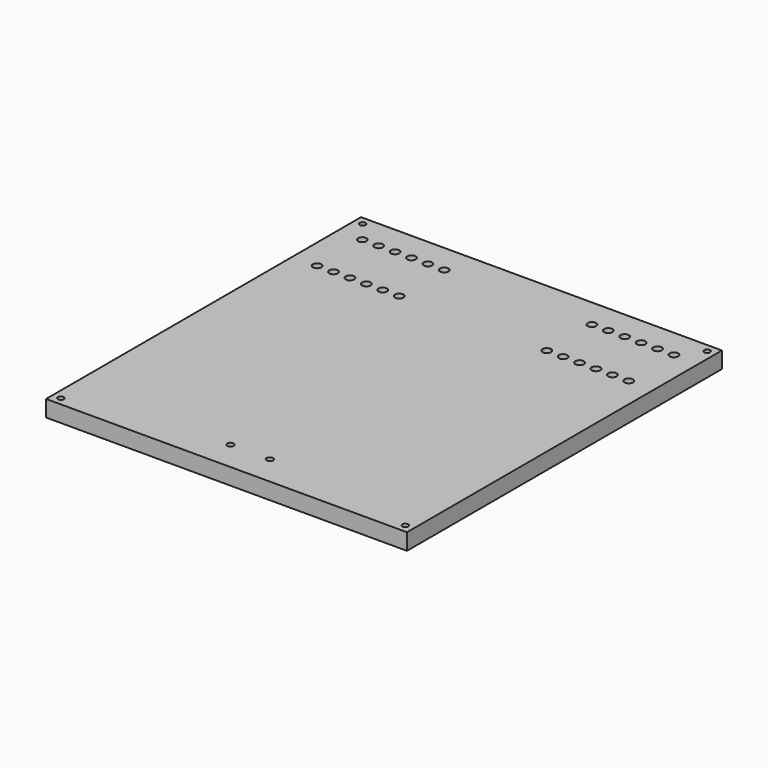
from build123d import *

# Parameters (mm, degrees)
F0_W     = 139.7
F0_H     = 152.4
F0_R     = 1.143
F0_R_2   = 1.27
F0_R_3   = 1.6383
F1_DEPTH = 6.35


with BuildPart() as f1:
    # F0 (on Top) → F1 (new body)
    with BuildSketch(Plane.XY):
        Rectangle(F0_W, F0_H)
        with Locations((-66.675, -73.025)):
            Circle(F0_R, mode=Mode.SUBTRACT)
        with Locations((-7.62, -64.77)):
            Circle(F0_R_2, mode=Mode.SUBTRACT)
        with Locations((7.62, -64.77)):
            Circle(F0_R_2, mode=Mode.SUBTRACT)
        with Locations((66.675, -73.025)):
            Circle(F0_R, mode=Mode.SUBTRACT)
        with Locations((-60.325, 43.053)):
            Circle(F0_R_3, mode=Mode.SUBTRACT)
        with Locations((-53.975, 43.053)):
            Circle(F0_R_3, mode=Mode.SUBTRACT)
        with Locations((-63.5, 53.975)):
            Circle(F0_R_3, mode=Mode.SUBTRACT)
        with Locations((-57.15, 53.975)):
            Circle(F0_R_3, mode=Mode.SUBTRACT)
        with Locations((-47.625, 43.053)):
            Circle(F0_R_3, mode=Mode.SUBTRACT)
        with Locations((-41.275, 43.053)):
            Circle(F0_R_3, mode=Mode.SUBTRACT)
        with Locations((-50.8, 53.975)):
            Circle(F0_R_3, mode=Mode.SUBTRACT)
        with Locations((-44.45, 53.975)):
            Circle(F0_R_3, mode=Mode.SUBTRACT)
        with Locations((-38.1, 53.975)):
            Circle(F0_R_3, mode=Mode.SUBTRACT)
        with Locations((-60.325, 64.897)):
            Circle(F0_R_3, mode=Mode.SUBTRACT)
        with Locations((-53.975, 64.897)):
            Circle(F0_R_3, mode=Mode.SUBTRACT)
        with Locations((-66.675, 73.025)):
            Circle(F0_R, mode=Mode.SUBTRACT)
        with Locations((-47.625, 64.897)):
            Circle(F0_R_3, mode=Mode.SUBTRACT)
        with Locations((-41.275, 64.897)):
            Circle(F0_R_3, mode=Mode.SUBTRACT)
        with Locations((-34.925, 43.053)):
            Circle(F0_R_3, mode=Mode.SUBTRACT)
        with Locations((-28.575, 43.053)):
            Circle(F0_R_3, mode=Mode.SUBTRACT)
        with Locations((-31.75, 53.975)):
            Circle(F0_R_3, mode=Mode.SUBTRACT)
        with Locations((-25.4, 53.975)):
            Circle(F0_R_3, mode=Mode.SUBTRACT)
        with Locations((-34.925, 64.897)):
            Circle(F0_R_3, mode=Mode.SUBTRACT)
        with Locations((-28.575, 64.897)):
            Circle(F0_R_3, mode=Mode.SUBTRACT)
        with Locations((28.575, 43.053)):
            Circle(F0_R_3, mode=Mode.SUBTRACT)
        with Locations((25.4, 53.975)):
            Circle(F0_R_3, mode=Mode.SUBTRACT)
        with Locations((31.75, 53.975)):
            Circle(F0_R_3, mode=Mode.SUBTRACT)
        with Locations((28.575, 64.897)):
            Circle(F0_R_3, mode=Mode.SUBTRACT)
        with Locations((34.925, 43.053)):
            Circle(F0_R_3, mode=Mode.SUBTRACT)
        with Locations((41.275, 43.053)):
            Circle(F0_R_3, mode=Mode.SUBTRACT)
        with Locations((47.625, 43.053)):
            Circle(F0_R_3, mode=Mode.SUBTRACT)
        with Locations((38.1, 53.975)):
            Circle(F0_R_3, mode=Mode.SUBTRACT)
        with Locations((44.45, 53.975)):
            Circle(F0_R_3, mode=Mode.SUBTRACT)
        with Locations((50.8, 53.975)):
            Circle(F0_R_3, mode=Mode.SUBTRACT)
        with Locations((53.975, 43.053)):
            Circle(F0_R_3, mode=Mode.SUBTRACT)
        with Locations((60.325, 43.053)):
            Circle(F0_R_3, mode=Mode.SUBTRACT)
        with Locations((57.15, 53.975)):
            Circle(F0_R_3, mode=Mode.SUBTRACT)
        with Locations((63.5, 53.975)):
            Circle(F0_R_3, mode=Mode.SUBTRACT)
        with Locations((34.925, 64.897)):
            Circle(F0_R_3, mode=Mode.SUBTRACT)
        with Locations((41.275, 64.897)):
            Circle(F0_R_3, mode=Mode.SUBTRACT)
        with Locations((47.625, 64.897)):
            Circle(F0_R_3, mode=Mode.SUBTRACT)
        with Locations((53.975, 64.897)):
            Circle(F0_R_3, mode=Mode.SUBTRACT)
        with Locations((60.325, 64.897)):
            Circle(F0_R_3, mode=Mode.SUBTRACT)
        with Locations((66.675, 73.025)):
            Circle(F0_R, mode=Mode.SUBTRACT)
        with Locations((-63.5, 53.975)):
            Circle(F0_R_3)
        with Locations((-57.15, 53.975)):
            Circle(F0_R_3)
        with Locations((-50.8, 53.975)):
            Circle(F0_R_3)
        with Locations((-44.45, 53.975)):
            Circle(F0_R_3)
        with Locations((-38.1, 53.975)):
            Circle(F0_R_3)
        with Locations((-31.75, 53.975)):
            Circle(F0_R_3)
        with Locations((-25.4, 53.975)):
            Circle(F0_R_3)
        with Locations((63.5, 53.975)):
            Circle(F0_R_3)
        with Locations((57.15, 53.975)):
            Circle(F0_R_3)
        with Locations((50.8, 53.975)):
            Circle(F0_R_3)
        with Locations((44.45, 53.975)):
            Circle(F0_R_3)
        with Locations((38.1, 53.975)):
            Circle(F0_R_3)
        with Locations((31.75, 53.975)):
            Circle(F0_R_3)
        with Locations((25.4, 53.975)):
            Circle(F0_R_3)
    extrude(amount=F1_DEPTH)


solid = f1.part
